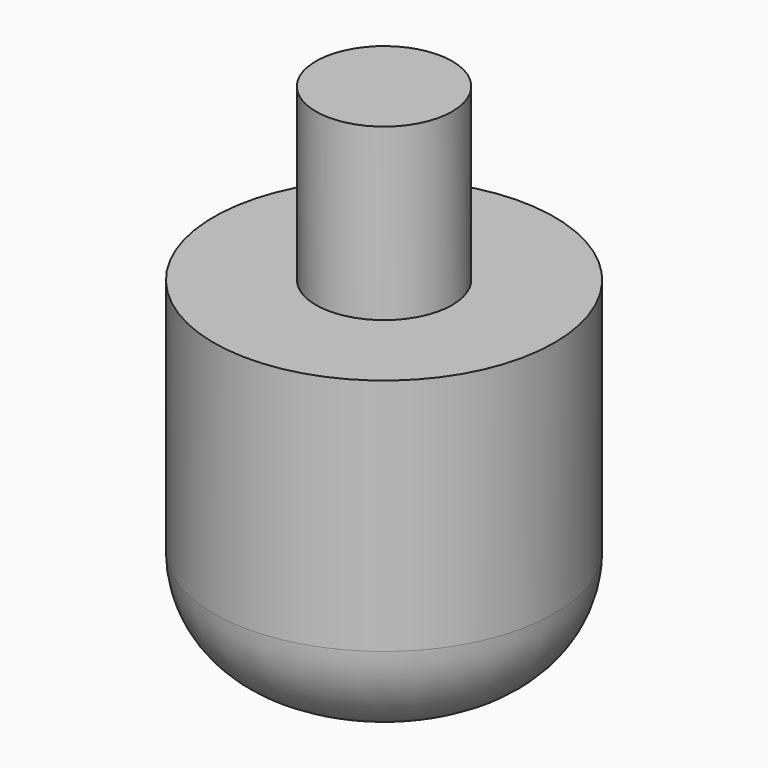
from build123d import *

# Parameters (mm, degrees)
SKETCH_R     = 2
PAD_DEPTH    = 5
SKETCH001_R  = 5
PAD001_DEPTH = 10
FILLET_R     = 3


with BuildPart() as part:
    # Sketch → Pad (new body)
    with BuildSketch(Plane.XY):
        Circle(SKETCH_R)
    extrude(amount=PAD_DEPTH)

    # Sketch001 → Pad001 (join)
    with BuildSketch(Plane.XY):
        Circle(SKETCH001_R)
    extrude(amount=-PAD001_DEPTH)

    # Fillet
    fillet_edges = [part.edges().sort_by_distance(p)[0] for p in [
        (-5, 0, -10),
    ]]
    fillet(fillet_edges, radius=FILLET_R)


solid = part.part
